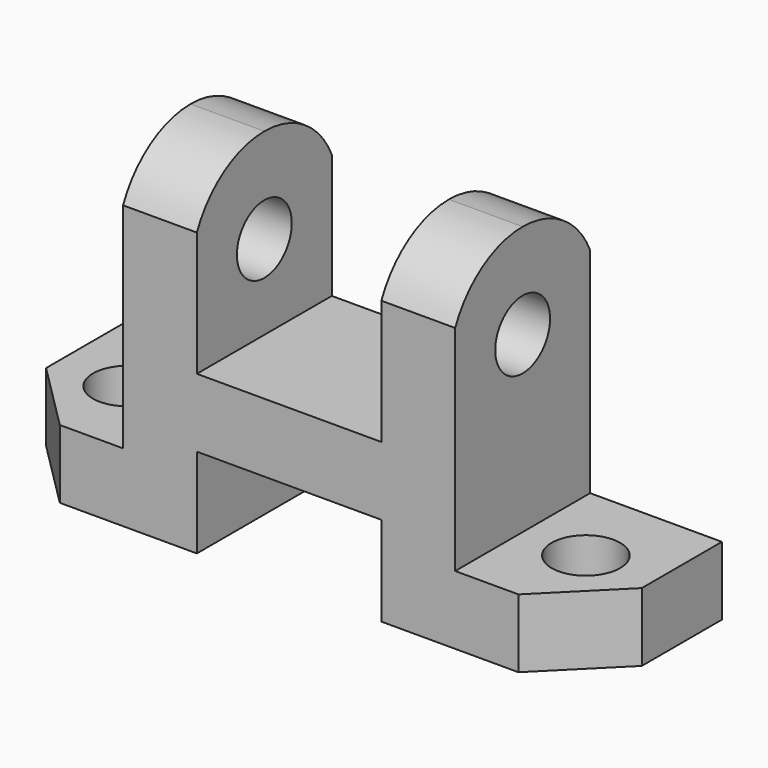
from build123d import *

# Parameters (mm, degrees)
F0_R     = 6.5
F1_DEPTH = 56.5
F2_W     = 25
F2_H     = 51
F2_W_2   = 35
F2_H_2   = 17
F2_H_3   = 34
F3_DEPTH = 32.001
F4_R     = 6.5
F5_DEPTH = 13.001
F6_R     = 6.5
F7_DEPTH = 13.001


with BuildPart() as f1:
    # F0 (on Right) → F1 (new body, symmetric)
    with BuildSketch(Plane.YZ):
        with BuildLine():
            Line((-16, 0), (16, 0))
            Line((16, 0), (16, 53.588723))
            ThreePointArc((16, 53.588723), (9.544562, 61.168038), (0, 64))
            ThreePointArc((0, 64), (-9.544562, 61.168038), (-16, 53.588723))
            Line((-16, 53.588723), (-16, 0))
        make_face()
        with Locations((0, 46)):
            Circle(F0_R, mode=Mode.SUBTRACT)
    extrude(amount=F1_DEPTH, both=True)

    # F2 (on face) → F3 (cut, through all)
    with BuildSketch(Plane(origin=(0, 16, 0), x_dir=(-1, 0, 0), z_dir=(0, 1, 0))):
        with Locations((44, 38.5)):
            Rectangle(F2_W, F2_H)
        with Locations((-44, 38.5)):
            Rectangle(F2_W, F2_H)
        with Locations((0, 8.5)):
            Rectangle(F2_W_2, F2_H_2)
        with Locations((0, 47)):
            Rectangle(F2_W_2, F2_H_3)
    extrude(amount=-F3_DEPTH, mode=Mode.SUBTRACT)

    # F4 (on face) → F5 (cut, through all)
    with BuildSketch(Plane.XY.offset(13)):
        with Locations((-43.5, 0)):
            Circle(F4_R)
        Polygon((-56.5, -3), (-56.5, -16), (-43.5, -16), align=None)
    extrude(amount=-F5_DEPTH, mode=Mode.SUBTRACT)

    # F6 (on face) → F7 (cut, through all)
    with BuildSketch(Plane.XY.offset(13)):
        with Locations((43.5, 0)):
            Circle(F6_R)
        Polygon((56.5, -3), (43.5, -16), (56.5, -16), align=None)
    extrude(amount=-F7_DEPTH, mode=Mode.SUBTRACT)


solid = f1.part
